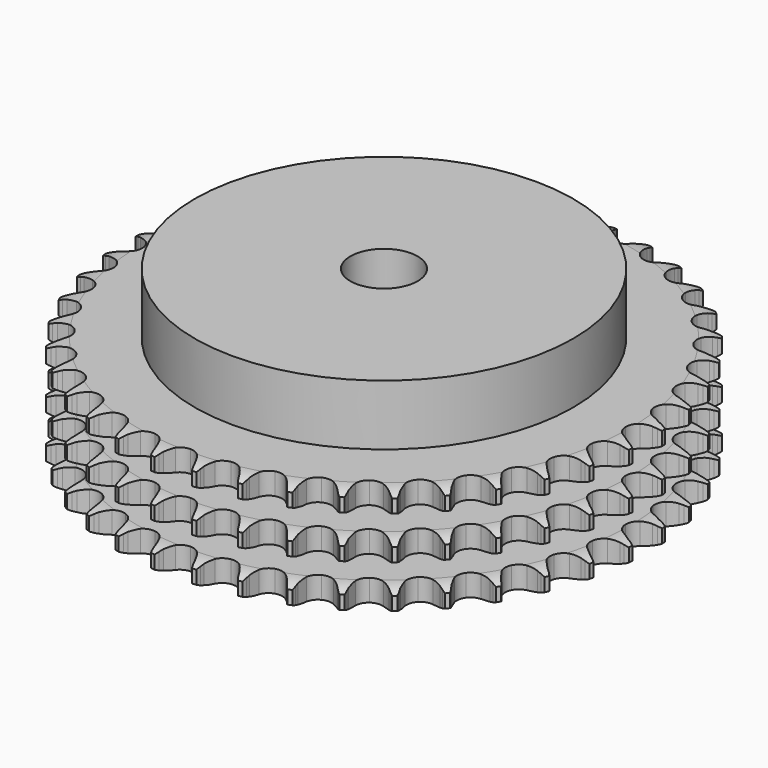
from build123d import *

# Parameters (mm, degrees)
PAD_DEPTH         = 25.6
SKETCH001_R       = 45
PAD001_DEPTH      = 40
SKETCH002_R       = 8
POCKET_DEPTH      = 0.001
POCKET_DEPTH_BACK = 40.001


with BuildPart() as part:
    # Sprocket → Pad (new body)
    with BuildSketch(Plane.XY):
        with BuildLine():
            ThreePointArc((-4.986853, 63.363969), (-4.438526, 62.600159), (-4.038812, 61.749103))
            Line((-4.038812, 61.749103), (-3.729238, 60.893914))
            ThreePointArc((-3.729238, 60.893914), (-3.239135, 59.795706), (-2.595634, 58.779751))
            ThreePointArc((-2.595634, 58.779751), (-1.453357, 57.817013), (0, 57.471444))
            ThreePointArc((0, 57.471444), (1.453357, 57.817013), (2.595634, 58.779751))
            ThreePointArc((2.595634, 58.779751), (3.239135, 59.795706), (3.729238, 60.893914))
            Line((3.729238, 60.893914), (4.038812, 61.749103))
            ThreePointArc((4.038812, 61.749103), (4.438526, 62.600159), (4.986853, 63.363969))
            ThreePointArc((4.986853, 63.363969), (5.408942, 62.523786), (5.670601, 61.620678))
            Line((5.670601, 61.620678), (5.842582, 60.72759))
            ThreePointArc((5.842582, 60.72759), (6.154853, 59.566235), (6.631502, 58.462122))
            ThreePointArc((6.631502, 58.462122), (7.60911, 57.332544), (8.990515, 56.763875))
            ThreePointArc((8.990515, 56.763875), (10.480037, 56.877834), (11.758856, 57.650028))
            Line((11.758856, 57.650028), (13.209231, 59.560827))
            ThreePointArc((13.209231, 59.560827), (13.418101, 59.964962), (13.648775, 60.35706))
            ThreePointArc((13.648775, 60.35706), (14.176703, 61.135109), (14.837765, 61.803738))
            ThreePointArc((14.837765, 61.803738), (15.123224, 60.907869), (15.240384, 59.974948))
            Line((15.240384, 59.974948), (15.270538, 59.065951))
            ThreePointArc((15.270538, 59.065951), (15.397289, 57.870044), (15.695348, 56.70496))
            ThreePointArc((15.695348, 56.70496), (16.484215, 55.436358), (17.759653, 54.658591))
            ThreePointArc((17.759653, 54.658591), (19.248664, 54.538135), (20.632536, 55.100771))
            Line((20.632536, 55.100771), (22.36397, 56.761156))
            ThreePointArc((22.36397, 56.761156), (22.633488, 57.12764), (22.922661, 57.478825))
            ThreePointArc((22.922661, 57.478825), (23.565802, 58.164709), (24.323322, 58.721694))
            ThreePointArc((24.323322, 58.721694), (24.465122, 57.792199), (24.434898, 56.852436))
            Line((24.434898, 56.852436), (24.322483, 55.949913))
            ThreePointArc((24.322483, 55.949913), (24.260592, 54.748901), (24.372722, 53.551535))
            ThreePointArc((24.372722, 53.551535), (24.953424, 52.175145), (26.09149, 51.207432))
            ThreePointArc((26.09149, 51.207432), (27.543325, 50.855525), (28.998175, 51.194749))
            Line((28.998175, 51.194749), (30.968033, 52.563836))
            ThreePointArc((30.968033, 52.563836), (31.291565, 52.883647), (31.632114, 53.185271))
            ThreePointArc((31.632114, 53.185271), (32.374633, 53.762101), (33.209958, 54.193726))
            ThreePointArc((33.209958, 54.193726), (33.204607, 53.253493), (33.027745, 52.330028))
            Line((33.027745, 52.330028), (32.775528, 51.456202))
            ThreePointArc((32.775528, 51.456202), (32.526519, 50.279659), (32.449959, 49.079493))
            ThreePointArc((32.449959, 49.079493), (32.808197, 47.629207), (33.780867, 46.495375))
            ThreePointArc((33.780867, 46.495375), (35.159777, 45.920684), (36.649783, 46.028142))
            Line((36.649783, 46.028142), (38.809561, 47.07222))
            ThreePointArc((38.809561, 47.07222), (39.179138, 47.337482), (39.56268, 47.58212))
            ThreePointArc((39.56268, 47.58212), (40.386293, 48.035692), (41.278855, 48.33133))
            ThreePointArc((41.278855, 48.33133), (41.126485, 47.403509), (40.807338, 46.519081))
            Line((40.807338, 46.519081), (40.42153, 45.695469))
            ThreePointArc((40.42153, 45.695469), (39.991535, 44.572364), (39.728171, 43.398951))
            ThreePointArc((39.728171, 43.398951), (39.855123, 41.91048), (40.638448, 40.638448))
            ThreePointArc((40.638448, 40.638448), (41.91048, 39.855123), (43.398951, 39.728171))
            Line((43.398951, 39.728171), (45.695469, 40.42153))
            ThreePointArc((45.695469, 40.42153), (46.101992, 40.625712), (46.519081, 40.807338))
            ThreePointArc((46.519081, 40.807338), (47.403509, 41.126485), (48.33133, 41.278855))
            ThreePointArc((48.33133, 41.278855), (48.035692, 40.386293), (47.58212, 39.56268))
            Line((47.58212, 39.56268), (47.07222, 38.809561))
            ThreePointArc((47.07222, 38.809561), (46.471827, 37.76755), (46.028142, 36.649783))
            ThreePointArc((46.028142, 36.649783), (45.920684, 35.159777), (46.495375, 33.780867))
            ThreePointArc((46.495375, 33.780867), (47.629207, 32.808197), (49.079493, 32.449959))
            Line((49.079493, 32.449959), (51.456202, 32.775528))
            ThreePointArc((51.456202, 32.775528), (51.889661, 32.913601), (52.330028, 33.027745))
            ThreePointArc((52.330028, 33.027745), (53.253493, 33.204607), (54.193726, 33.209958))
            ThreePointArc((54.193726, 33.209958), (53.762101, 32.374633), (53.185271, 31.632114))
            Line((53.185271, 31.632114), (52.563836, 30.968033))
            ThreePointArc((52.563836, 30.968033), (51.807828, 30.032774), (51.194749, 28.998175))
            ThreePointArc((51.194749, 28.998175), (50.855525, 27.543325), (51.207432, 26.09149))
            ThreePointArc((51.207432, 26.09149), (52.175145, 24.953424), (53.551535, 24.372722))
            Line((53.551535, 24.372722), (55.949913, 24.322483))
            ThreePointArc((55.949913, 24.322483), (56.399635, 24.391049), (56.852436, 24.434898))
            ThreePointArc((56.852436, 24.434898), (57.792199, 24.465122), (58.721694, 24.323322))
            ThreePointArc((58.721694, 24.323322), (58.164709, 23.565802), (57.478825, 22.922661))
            Line((57.478825, 22.922661), (56.761156, 22.36397))
            ThreePointArc((56.761156, 22.36397), (55.868148, 21.55849), (55.100771, 20.632536))
            ThreePointArc((55.100771, 20.632536), (54.538135, 19.248664), (54.658591, 17.759653))
            ThreePointArc((54.658591, 17.759653), (55.436358, 16.484215), (56.70496, 15.695348))
            Line((56.70496, 15.695348), (59.065951, 15.270538))
            ThreePointArc((59.065951, 15.270538), (59.520863, 15.267908), (59.974948, 15.240384))
            ThreePointArc((59.974948, 15.240384), (60.907869, 15.123224), (61.803738, 14.837765))
            ThreePointArc((61.803738, 14.837765), (61.135109, 14.176703), (60.35706, 13.648775))
            Line((60.35706, 13.648775), (59.560827, 13.209231))
            ThreePointArc((59.560827, 13.209231), (58.55281, 12.553366), (57.650028, 11.758856))
            ThreePointArc((57.650028, 11.758856), (56.877834, 10.480037), (56.763875, 8.990515))
            ThreePointArc((56.763875, 8.990515), (57.332544, 7.60911), (58.462122, 6.631502))
            Line((58.462122, 6.631502), (60.72759, 5.842582))
            ThreePointArc((60.72759, 5.842582), (61.176489, 5.76882), (61.620678, 5.670601))
            ThreePointArc((61.620678, 5.670601), (62.523786, 5.408942), (63.363969, 4.986853))
            ThreePointArc((63.363969, 4.986853), (62.600159, 4.438526), (61.749103, 4.038812))
            Line((61.749103, 4.038812), (60.893914, 3.729238))
            ThreePointArc((60.893914, 3.729238), (59.795706, 3.239135), (58.779751, 2.595634))
            ThreePointArc((58.779751, 2.595634), (57.817013, 1.453357), (57.471444, 0))
            ThreePointArc((57.471444, 0), (57.817013, -1.453357), (58.779751, -2.595634))
            Line((58.779751, -2.595634), (60.893914, -3.729238))
            ThreePointArc((60.893914, -3.729238), (61.325747, -3.872315), (61.749103, -4.038812))
            ThreePointArc((61.749103, -4.038812), (62.600159, -4.438526), (63.363969, -4.986853))
            ThreePointArc((63.363969, -4.986853), (62.523786, -5.408942), (61.620678, -5.670601))
            Line((61.620678, -5.670601), (60.72759, -5.842582))
            ThreePointArc((60.72759, -5.842582), (59.566235, -6.154853), (58.462122, -6.631502))
            ThreePointArc((58.462122, -6.631502), (57.332544, -7.60911), (56.763875, -8.990515))
            ThreePointArc((56.763875, -8.990515), (56.877834, -10.480037), (57.650028, -11.758856))
            Line((57.650028, -11.758856), (59.560827, -13.209231))
            ThreePointArc((59.560827, -13.209231), (59.964962, -13.418101), (60.35706, -13.648775))
            ThreePointArc((60.35706, -13.648775), (61.135109, -14.176703), (61.803738, -14.837765))
            ThreePointArc((61.803738, -14.837765), (60.907869, -15.123224), (59.974948, -15.240384))
            Line((59.974948, -15.240384), (59.065951, -15.270538))
            ThreePointArc((59.065951, -15.270538), (57.870044, -15.397289), (56.70496, -15.695348))
            ThreePointArc((56.70496, -15.695348), (55.436358, -16.484215), (54.658591, -17.759653))
            ThreePointArc((54.658591, -17.759653), (54.538135, -19.248664), (55.100771, -20.632536))
            Line((55.100771, -20.632536), (56.761156, -22.36397))
            ThreePointArc((56.761156, -22.36397), (57.12764, -22.633488), (57.478825, -22.922661))
            ThreePointArc((57.478825, -22.922661), (58.164709, -23.565802), (58.721694, -24.323322))
            ThreePointArc((58.721694, -24.323322), (57.792199, -24.465122), (56.852436, -24.434898))
            Line((56.852436, -24.434898), (55.949913, -24.322483))
            ThreePointArc((55.949913, -24.322483), (54.748901, -24.260592), (53.551535, -24.372722))
            ThreePointArc((53.551535, -24.372722), (52.175145, -24.953424), (51.207432, -26.09149))
            ThreePointArc((51.207432, -26.09149), (50.855525, -27.543325), (51.194749, -28.998175))
            Line((51.194749, -28.998175), (52.563836, -30.968033))
            ThreePointArc((52.563836, -30.968033), (52.883647, -31.291565), (53.185271, -31.632114))
            ThreePointArc((53.185271, -31.632114), (53.762101, -32.374633), (54.193726, -33.209958))
            ThreePointArc((54.193726, -33.209958), (53.253493, -33.204607), (52.330028, -33.027745))
            Line((52.330028, -33.027745), (51.456202, -32.775528))
            ThreePointArc((51.456202, -32.775528), (50.279659, -32.526519), (49.079493, -32.449959))
            ThreePointArc((49.079493, -32.449959), (47.629207, -32.808197), (46.495375, -33.780867))
            ThreePointArc((46.495375, -33.780867), (45.920684, -35.159777), (46.028142, -36.649783))
            Line((46.028142, -36.649783), (47.07222, -38.809561))
            ThreePointArc((47.07222, -38.809561), (47.337482, -39.179138), (47.58212, -39.56268))
            ThreePointArc((47.58212, -39.56268), (48.035692, -40.386293), (48.33133, -41.278855))
            ThreePointArc((48.33133, -41.278855), (47.403509, -41.126485), (46.519081, -40.807338))
            Line((46.519081, -40.807338), (45.695469, -40.42153))
            ThreePointArc((45.695469, -40.42153), (44.572364, -39.991535), (43.398951, -39.728171))
            ThreePointArc((43.398951, -39.728171), (41.91048, -39.855123), (40.638448, -40.638448))
            ThreePointArc((40.638448, -40.638448), (39.855123, -41.91048), (39.728171, -43.398951))
            Line((39.728171, -43.398951), (40.42153, -45.695469))
            ThreePointArc((40.42153, -45.695469), (40.625712, -46.101992), (40.807338, -46.519081))
            ThreePointArc((40.807338, -46.519081), (41.126485, -47.403509), (41.278855, -48.33133))
            ThreePointArc((41.278855, -48.33133), (40.386293, -48.035692), (39.56268, -47.58212))
            Line((39.56268, -47.58212), (38.809561, -47.07222))
            ThreePointArc((38.809561, -47.07222), (37.76755, -46.471827), (36.649783, -46.028142))
            ThreePointArc((36.649783, -46.028142), (35.159777, -45.920684), (33.780867, -46.495375))
            ThreePointArc((33.780867, -46.495375), (32.808197, -47.629207), (32.449959, -49.079493))
            Line((32.449959, -49.079493), (32.775528, -51.456202))
            ThreePointArc((32.775528, -51.456202), (32.913601, -51.889661), (33.027745, -52.330028))
            ThreePointArc((33.027745, -52.330028), (33.204607, -53.253493), (33.209958, -54.193726))
            ThreePointArc((33.209958, -54.193726), (32.374633, -53.762101), (31.632114, -53.185271))
            Line((31.632114, -53.185271), (30.968033, -52.563836))
            ThreePointArc((30.968033, -52.563836), (30.032774, -51.807828), (28.998175, -51.194749))
            ThreePointArc((28.998175, -51.194749), (27.543325, -50.855525), (26.09149, -51.207432))
            ThreePointArc((26.09149, -51.207432), (24.953424, -52.175145), (24.372722, -53.551535))
            Line((24.372722, -53.551535), (24.322483, -55.949913))
            ThreePointArc((24.322483, -55.949913), (24.391049, -56.399635), (24.434898, -56.852436))
            ThreePointArc((24.434898, -56.852436), (24.465122, -57.792199), (24.323322, -58.721694))
            ThreePointArc((24.323322, -58.721694), (23.565802, -58.164709), (22.922661, -57.478825))
            Line((22.922661, -57.478825), (22.36397, -56.761156))
            ThreePointArc((22.36397, -56.761156), (21.55849, -55.868148), (20.632536, -55.100771))
            ThreePointArc((20.632536, -55.100771), (19.248664, -54.538135), (17.759653, -54.658591))
            ThreePointArc((17.759653, -54.658591), (16.484215, -55.436358), (15.695348, -56.70496))
            Line((15.695348, -56.70496), (15.270538, -59.065951))
            ThreePointArc((15.270538, -59.065951), (15.267908, -59.520863), (15.240384, -59.974948))
            ThreePointArc((15.240384, -59.974948), (15.123224, -60.907869), (14.837765, -61.803738))
            ThreePointArc((14.837765, -61.803738), (14.176703, -61.135109), (13.648775, -60.35706))
            Line((13.648775, -60.35706), (13.209231, -59.560827))
            ThreePointArc((13.209231, -59.560827), (12.553366, -58.55281), (11.758856, -57.650028))
            ThreePointArc((11.758856, -57.650028), (10.480037, -56.877834), (8.990515, -56.763875))
            ThreePointArc((8.990515, -56.763875), (7.60911, -57.332544), (6.631502, -58.462122))
            Line((6.631502, -58.462122), (5.842582, -60.72759))
            ThreePointArc((5.842582, -60.72759), (5.76882, -61.176489), (5.670601, -61.620678))
            ThreePointArc((5.670601, -61.620678), (5.408942, -62.523786), (4.986853, -63.363969))
            ThreePointArc((4.986853, -63.363969), (4.438526, -62.600159), (4.038812, -61.749103))
            Line((4.038812, -61.749103), (3.729238, -60.893914))
            ThreePointArc((3.729238, -60.893914), (3.239135, -59.795706), (2.595634, -58.779751))
            ThreePointArc((2.595634, -58.779751), (1.453357, -57.817013), (0, -57.471444))
            ThreePointArc((0, -57.471444), (-1.453357, -57.817013), (-2.595634, -58.779751))
            Line((-2.595634, -58.779751), (-3.729238, -60.893914))
            ThreePointArc((-3.729238, -60.893914), (-3.872315, -61.325747), (-4.038812, -61.749103))
            ThreePointArc((-4.038812, -61.749103), (-4.438526, -62.600159), (-4.986853, -63.363969))
            ThreePointArc((-4.986853, -63.363969), (-5.408942, -62.523786), (-5.670601, -61.620678))
            Line((-5.670601, -61.620678), (-5.842582, -60.72759))
            ThreePointArc((-5.842582, -60.72759), (-6.154853, -59.566235), (-6.631502, -58.462122))
            ThreePointArc((-6.631502, -58.462122), (-7.60911, -57.332544), (-8.990515, -56.763875))
            ThreePointArc((-8.990515, -56.763875), (-10.480037, -56.877834), (-11.758856, -57.650028))
            Line((-11.758856, -57.650028), (-13.209231, -59.560827))
            ThreePointArc((-13.209231, -59.560827), (-13.418101, -59.964962), (-13.648775, -60.35706))
            ThreePointArc((-13.648775, -60.35706), (-14.176703, -61.135109), (-14.837765, -61.803738))
            ThreePointArc((-14.837765, -61.803738), (-15.123224, -60.907869), (-15.240384, -59.974948))
            Line((-15.240384, -59.974948), (-15.270538, -59.065951))
            ThreePointArc((-15.270538, -59.065951), (-15.397289, -57.870044), (-15.695348, -56.70496))
            ThreePointArc((-15.695348, -56.70496), (-16.484215, -55.436358), (-17.759653, -54.658591))
            ThreePointArc((-17.759653, -54.658591), (-19.248664, -54.538135), (-20.632536, -55.100771))
            Line((-20.632536, -55.100771), (-22.36397, -56.761156))
            ThreePointArc((-22.36397, -56.761156), (-22.633488, -57.12764), (-22.922661, -57.478825))
            ThreePointArc((-22.922661, -57.478825), (-23.565802, -58.164709), (-24.323322, -58.721694))
            ThreePointArc((-24.323322, -58.721694), (-24.465122, -57.792199), (-24.434898, -56.852436))
            Line((-24.434898, -56.852436), (-24.322483, -55.949913))
            ThreePointArc((-24.322483, -55.949913), (-24.260592, -54.748901), (-24.372722, -53.551535))
            ThreePointArc((-24.372722, -53.551535), (-24.953424, -52.175145), (-26.09149, -51.207432))
            ThreePointArc((-26.09149, -51.207432), (-27.543325, -50.855525), (-28.998175, -51.194749))
            Line((-28.998175, -51.194749), (-30.968033, -52.563836))
            ThreePointArc((-30.968033, -52.563836), (-31.291565, -52.883647), (-31.632114, -53.185271))
            ThreePointArc((-31.632114, -53.185271), (-32.374633, -53.762101), (-33.209958, -54.193726))
            ThreePointArc((-33.209958, -54.193726), (-33.204607, -53.253493), (-33.027745, -52.330028))
            Line((-33.027745, -52.330028), (-32.775528, -51.456202))
            ThreePointArc((-32.775528, -51.456202), (-32.526519, -50.279659), (-32.449959, -49.079493))
            ThreePointArc((-32.449959, -49.079493), (-32.808197, -47.629207), (-33.780867, -46.495375))
            ThreePointArc((-33.780867, -46.495375), (-35.159777, -45.920684), (-36.649783, -46.028142))
            Line((-36.649783, -46.028142), (-38.809561, -47.07222))
            ThreePointArc((-38.809561, -47.07222), (-39.179138, -47.337482), (-39.56268, -47.58212))
            ThreePointArc((-39.56268, -47.58212), (-40.386293, -48.035692), (-41.278855, -48.33133))
            ThreePointArc((-41.278855, -48.33133), (-41.126485, -47.403509), (-40.807338, -46.519081))
            Line((-40.807338, -46.519081), (-40.42153, -45.695469))
            ThreePointArc((-40.42153, -45.695469), (-39.991535, -44.572364), (-39.728171, -43.398951))
            ThreePointArc((-39.728171, -43.398951), (-39.855123, -41.91048), (-40.638448, -40.638448))
            ThreePointArc((-40.638448, -40.638448), (-41.91048, -39.855123), (-43.398951, -39.728171))
            Line((-43.398951, -39.728171), (-45.695469, -40.42153))
            ThreePointArc((-45.695469, -40.42153), (-46.101992, -40.625712), (-46.519081, -40.807338))
            ThreePointArc((-46.519081, -40.807338), (-47.403509, -41.126485), (-48.33133, -41.278855))
            ThreePointArc((-48.33133, -41.278855), (-48.035692, -40.386293), (-47.58212, -39.56268))
            Line((-47.58212, -39.56268), (-47.07222, -38.809561))
            ThreePointArc((-47.07222, -38.809561), (-46.471827, -37.76755), (-46.028142, -36.649783))
            ThreePointArc((-46.028142, -36.649783), (-45.920684, -35.159777), (-46.495375, -33.780867))
            ThreePointArc((-46.495375, -33.780867), (-47.629207, -32.808197), (-49.079493, -32.449959))
            Line((-49.079493, -32.449959), (-51.456202, -32.775528))
            ThreePointArc((-51.456202, -32.775528), (-51.889661, -32.913601), (-52.330028, -33.027745))
            ThreePointArc((-52.330028, -33.027745), (-53.253493, -33.204607), (-54.193726, -33.209958))
            ThreePointArc((-54.193726, -33.209958), (-53.762101, -32.374633), (-53.185271, -31.632114))
            Line((-53.185271, -31.632114), (-52.563836, -30.968033))
            ThreePointArc((-52.563836, -30.968033), (-51.807828, -30.032774), (-51.194749, -28.998175))
            ThreePointArc((-51.194749, -28.998175), (-50.855525, -27.543325), (-51.207432, -26.09149))
            ThreePointArc((-51.207432, -26.09149), (-52.175145, -24.953424), (-53.551535, -24.372722))
            Line((-53.551535, -24.372722), (-55.949913, -24.322483))
            ThreePointArc((-55.949913, -24.322483), (-56.399635, -24.391049), (-56.852436, -24.434898))
            ThreePointArc((-56.852436, -24.434898), (-57.792199, -24.465122), (-58.721694, -24.323322))
            ThreePointArc((-58.721694, -24.323322), (-58.164709, -23.565802), (-57.478825, -22.922661))
            Line((-57.478825, -22.922661), (-56.761156, -22.36397))
            ThreePointArc((-56.761156, -22.36397), (-55.868148, -21.55849), (-55.100771, -20.632536))
            ThreePointArc((-55.100771, -20.632536), (-54.538135, -19.248664), (-54.658591, -17.759653))
            ThreePointArc((-54.658591, -17.759653), (-55.436358, -16.484215), (-56.70496, -15.695348))
            Line((-56.70496, -15.695348), (-59.065951, -15.270538))
            ThreePointArc((-59.065951, -15.270538), (-59.520863, -15.267908), (-59.974948, -15.240384))
            ThreePointArc((-59.974948, -15.240384), (-60.907869, -15.123224), (-61.803738, -14.837765))
            ThreePointArc((-61.803738, -14.837765), (-61.135109, -14.176703), (-60.35706, -13.648775))
            Line((-60.35706, -13.648775), (-59.560827, -13.209231))
            ThreePointArc((-59.560827, -13.209231), (-58.55281, -12.553366), (-57.650028, -11.758856))
            ThreePointArc((-57.650028, -11.758856), (-56.877834, -10.480037), (-56.763875, -8.990515))
            ThreePointArc((-56.763875, -8.990515), (-57.332544, -7.60911), (-58.462122, -6.631502))
            Line((-58.462122, -6.631502), (-60.72759, -5.842582))
            ThreePointArc((-60.72759, -5.842582), (-61.176489, -5.76882), (-61.620678, -5.670601))
            ThreePointArc((-61.620678, -5.670601), (-62.523786, -5.408942), (-63.363969, -4.986853))
            ThreePointArc((-63.363969, -4.986853), (-62.600159, -4.438526), (-61.749103, -4.038812))
            Line((-61.749103, -4.038812), (-60.893914, -3.729238))
            ThreePointArc((-60.893914, -3.729238), (-59.795706, -3.239135), (-58.779751, -2.595634))
            ThreePointArc((-58.779751, -2.595634), (-57.817013, -1.453357), (-57.471444, 0))
            ThreePointArc((-57.471444, 0), (-57.817013, 1.453357), (-58.779751, 2.595634))
            Line((-58.779751, 2.595634), (-60.893914, 3.729238))
            ThreePointArc((-60.893914, 3.729238), (-61.325747, 3.872315), (-61.749103, 4.038812))
            ThreePointArc((-61.749103, 4.038812), (-62.600159, 4.438526), (-63.363969, 4.986853))
            ThreePointArc((-63.363969, 4.986853), (-62.523786, 5.408942), (-61.620678, 5.670601))
            Line((-61.620678, 5.670601), (-60.72759, 5.842582))
            ThreePointArc((-60.72759, 5.842582), (-59.566235, 6.154853), (-58.462122, 6.631502))
            ThreePointArc((-58.462122, 6.631502), (-57.332544, 7.60911), (-56.763875, 8.990515))
            ThreePointArc((-56.763875, 8.990515), (-56.877834, 10.480037), (-57.650028, 11.758856))
            Line((-57.650028, 11.758856), (-59.560827, 13.209231))
            ThreePointArc((-59.560827, 13.209231), (-59.964962, 13.418101), (-60.35706, 13.648775))
            ThreePointArc((-60.35706, 13.648775), (-61.135109, 14.176703), (-61.803738, 14.837765))
            ThreePointArc((-61.803738, 14.837765), (-60.907869, 15.123224), (-59.974948, 15.240384))
            Line((-59.974948, 15.240384), (-59.065951, 15.270538))
            ThreePointArc((-59.065951, 15.270538), (-57.870044, 15.397289), (-56.70496, 15.695348))
            ThreePointArc((-56.70496, 15.695348), (-55.436358, 16.484215), (-54.658591, 17.759653))
            ThreePointArc((-54.658591, 17.759653), (-54.538135, 19.248664), (-55.100771, 20.632536))
            Line((-55.100771, 20.632536), (-56.761156, 22.36397))
            ThreePointArc((-56.761156, 22.36397), (-57.12764, 22.633488), (-57.478825, 22.922661))
            ThreePointArc((-57.478825, 22.922661), (-58.164709, 23.565802), (-58.721694, 24.323322))
            ThreePointArc((-58.721694, 24.323322), (-57.792199, 24.465122), (-56.852436, 24.434898))
            Line((-56.852436, 24.434898), (-55.949913, 24.322483))
            ThreePointArc((-55.949913, 24.322483), (-54.748901, 24.260592), (-53.551535, 24.372722))
            ThreePointArc((-53.551535, 24.372722), (-52.175145, 24.953424), (-51.207432, 26.09149))
            ThreePointArc((-51.207432, 26.09149), (-50.855525, 27.543325), (-51.194749, 28.998175))
            Line((-51.194749, 28.998175), (-52.563836, 30.968033))
            ThreePointArc((-52.563836, 30.968033), (-52.883647, 31.291565), (-53.185271, 31.632114))
            ThreePointArc((-53.185271, 31.632114), (-53.762101, 32.374633), (-54.193726, 33.209958))
            ThreePointArc((-54.193726, 33.209958), (-53.253493, 33.204607), (-52.330028, 33.027745))
            Line((-52.330028, 33.027745), (-51.456202, 32.775528))
            ThreePointArc((-51.456202, 32.775528), (-50.279659, 32.526519), (-49.079493, 32.449959))
            ThreePointArc((-49.079493, 32.449959), (-47.629207, 32.808197), (-46.495375, 33.780867))
            ThreePointArc((-46.495375, 33.780867), (-45.920684, 35.159777), (-46.028142, 36.649783))
            Line((-46.028142, 36.649783), (-47.07222, 38.809561))
            ThreePointArc((-47.07222, 38.809561), (-47.337482, 39.179138), (-47.58212, 39.56268))
            ThreePointArc((-47.58212, 39.56268), (-48.035692, 40.386293), (-48.33133, 41.278855))
            ThreePointArc((-48.33133, 41.278855), (-47.403509, 41.126485), (-46.519081, 40.807338))
            Line((-46.519081, 40.807338), (-45.695469, 40.42153))
            ThreePointArc((-45.695469, 40.42153), (-44.572364, 39.991535), (-43.398951, 39.728171))
            ThreePointArc((-43.398951, 39.728171), (-41.91048, 39.855123), (-40.638448, 40.638448))
            ThreePointArc((-40.638448, 40.638448), (-39.855123, 41.91048), (-39.728171, 43.398951))
            Line((-39.728171, 43.398951), (-40.42153, 45.695469))
            ThreePointArc((-40.42153, 45.695469), (-40.625712, 46.101992), (-40.807338, 46.519081))
            ThreePointArc((-40.807338, 46.519081), (-41.126485, 47.403509), (-41.278855, 48.33133))
            ThreePointArc((-41.278855, 48.33133), (-40.386293, 48.035692), (-39.56268, 47.58212))
            Line((-39.56268, 47.58212), (-38.809561, 47.07222))
            ThreePointArc((-38.809561, 47.07222), (-37.76755, 46.471827), (-36.649783, 46.028142))
            ThreePointArc((-36.649783, 46.028142), (-35.159777, 45.920684), (-33.780867, 46.495375))
            ThreePointArc((-33.780867, 46.495375), (-32.808197, 47.629207), (-32.449959, 49.079493))
            Line((-32.449959, 49.079493), (-32.775528, 51.456202))
            ThreePointArc((-32.775528, 51.456202), (-32.913601, 51.889661), (-33.027745, 52.330028))
            ThreePointArc((-33.027745, 52.330028), (-33.204607, 53.253493), (-33.209958, 54.193726))
            ThreePointArc((-33.209958, 54.193726), (-32.374633, 53.762101), (-31.632114, 53.185271))
            Line((-31.632114, 53.185271), (-30.968033, 52.563836))
            ThreePointArc((-30.968033, 52.563836), (-30.032774, 51.807828), (-28.998175, 51.194749))
            ThreePointArc((-28.998175, 51.194749), (-27.543325, 50.855525), (-26.09149, 51.207432))
            ThreePointArc((-26.09149, 51.207432), (-24.953424, 52.175145), (-24.372722, 53.551535))
            Line((-24.372722, 53.551535), (-24.322483, 55.949913))
            ThreePointArc((-24.322483, 55.949913), (-24.391049, 56.399635), (-24.434898, 56.852436))
            ThreePointArc((-24.434898, 56.852436), (-24.465122, 57.792199), (-24.323322, 58.721694))
            ThreePointArc((-24.323322, 58.721694), (-23.565802, 58.164709), (-22.922661, 57.478825))
            Line((-22.922661, 57.478825), (-22.36397, 56.761156))
            ThreePointArc((-22.36397, 56.761156), (-21.55849, 55.868148), (-20.632536, 55.100771))
            ThreePointArc((-20.632536, 55.100771), (-19.248664, 54.538135), (-17.759653, 54.658591))
            ThreePointArc((-17.759653, 54.658591), (-16.484215, 55.436358), (-15.695348, 56.70496))
            Line((-15.695348, 56.70496), (-15.270538, 59.065951))
            ThreePointArc((-15.270538, 59.065951), (-15.267908, 59.520863), (-15.240384, 59.974948))
            ThreePointArc((-15.240384, 59.974948), (-15.123224, 60.907869), (-14.837765, 61.803738))
            ThreePointArc((-14.837765, 61.803738), (-14.176703, 61.135109), (-13.648775, 60.35706))
            Line((-13.648775, 60.35706), (-13.209231, 59.560827))
            ThreePointArc((-13.209231, 59.560827), (-12.553366, 58.55281), (-11.758856, 57.650028))
            ThreePointArc((-11.758856, 57.650028), (-10.480037, 56.877834), (-8.990515, 56.763875))
            ThreePointArc((-8.990515, 56.763875), (-7.60911, 57.332544), (-6.631502, 58.462122))
            Line((-6.631502, 58.462122), (-5.842582, 60.72759))
            ThreePointArc((-5.842582, 60.72759), (-5.76882, 61.176489), (-5.670601, 61.620678))
            ThreePointArc((-5.670601, 61.620678), (-5.408942, 62.523786), (-4.986853, 63.363969))
        make_face()
    extrude(amount=PAD_DEPTH)

    # Sketch → Groove (revolve, cut)
    with BuildSketch(Plane.XZ):
        with BuildLine():
            ThreePointArc((58.391101, 0), (60.627169, 0.253206), (62.75, 1))
            Line((62.75, 1), (62.75, 4.2))
            ThreePointArc((62.75, 4.2), (60.627169, 4.946794), (58.391101, 5.2))
            Line((45, 5.2), (58.391101, 5.2))
            Line((45, 5.2), (45, 10.2))
            Line((45, 10.2), (58.391101, 10.2))
            ThreePointArc((58.391101, 10.2), (60.627169, 10.453206), (62.75, 11.2))
            Line((62.75, 14.4), (62.75, 11.2))
            ThreePointArc((62.75, 14.4), (60.627169, 15.146794), (58.391101, 15.4))
            Line((45, 15.4), (58.391101, 15.4))
            Line((45, 20.4), (45, 15.4))
            Line((58.391101, 20.4), (45, 20.4))
            ThreePointArc((58.391101, 20.4), (60.627169, 20.653206), (62.75, 21.4))
            Line((62.75, 21.4), (62.75, 24.6))
            ThreePointArc((62.75, 24.6), (60.627169, 25.346794), (58.391101, 25.6))
            Line((58.391101, 25.6), (72.75, 25.6))
            Line((72.75, 25.6), (72.75, 0))
            Line((58.391101, 0), (72.75, 0))
        make_face()
    revolve(axis=Axis((0, 0, 0), (0, 0, 1)), mode=Mode.SUBTRACT)

    # Sketch001 → Pad001 (join)
    with BuildSketch(Plane.XY):
        Circle(SKETCH001_R)
    extrude(amount=PAD001_DEPTH)

    # Sketch002 → Pocket (cut, two sides)
    with BuildSketch(Plane.XY) as pocket_sk:
        Circle(SKETCH002_R)
    extrude(amount=-POCKET_DEPTH, mode=Mode.SUBTRACT)
    extrude(pocket_sk.sketch, amount=POCKET_DEPTH_BACK, mode=Mode.SUBTRACT)


solid = part.part
